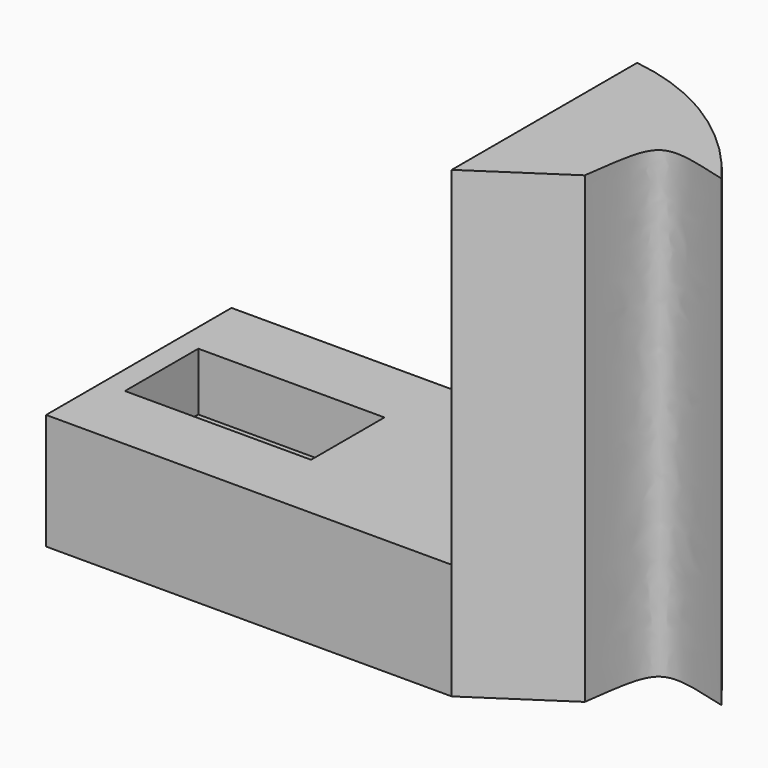
from build123d import *

# Parameters (mm, degrees)
F0_W      = 101.6
F0_H      = 50.8
F1_DEPTH  = 25.4
F3_DEPTH  = 12.7
F4_W      = 12.7
F4_H      = 50.8
F5_DEPTH  = 76.2
F6_DEPTH  = 25.4
F8_DEPTH  = 228.6
F10_DEPTH = 228.6
F12_DEPTH = 228.6


with BuildPart() as f1:
    # F0 (on Top) → F1 (new body)
    with BuildSketch(Plane.XY):
        Rectangle(F0_W, F0_H)
    extrude(amount=F1_DEPTH)

    # F2 (on face) → F3 (cut)
    with BuildSketch(Plane.XY.offset(25.4)):
        with BuildLine():
            Line((-22.7059231637, 2.6940768363), (-25.4, 0))
            Line((-25.4, 0), (-22.7059231637, -2.6940768363))
            ThreePointArc((-22.7059231637, -2.6940768363), (-21.8800189811, -1.4580238773), (-21.59, 0))
            ThreePointArc((-21.59, 0), (-21.8800189811, 1.4580238773), (-22.7059231637, 2.6940768363))
        make_face()
        with BuildLine():
            ThreePointArc((-22.7059231637, 2.6940768363), (-25.4, 3.81), (-28.0940768363, 2.6940768363))
            Line((-28.0940768363, 2.6940768363), (-25.4, 0))
            Line((-25.4, 0), (-22.7059231637, 2.6940768363))
        make_face()
        with BuildLine():
            Line((-25.4, 0), (-28.0940768363, 2.6940768363))
            ThreePointArc((-28.0940768363, 2.6940768363), (-29.21, 0), (-28.0940768363, -2.6940768363))
            Line((-28.0940768363, -2.6940768363), (-25.4, 0))
        make_face()
        with BuildLine():
            Line((-22.7059231637, -2.6940768363), (-25.4, 0))
            Line((-25.4, 0), (-28.0940768363, -2.6940768363))
            ThreePointArc((-28.0940768363, -2.6940768363), (-25.4, -3.81), (-22.7059231637, -2.6940768363))
        make_face()
        with BuildLine():
            Line((-5.0000027, 10.05000022), (-14.7721255415, 10.05000022))
            ThreePointArc((-14.7721255415, 10.05000022), (-11.8093784333, 5.4082552971), (-10.772825976, 0))
            ThreePointArc((-10.772825976, 0), (-11.8093784333, -5.4082552971), (-14.7721255415, -10.05000022))
            Line((-14.7721255415, -10.05000022), (-5.0000027, -10.05000022))
            Line((-5.0000027, -10.05000022), (-5.0000027, 10.05000022))
        make_face()
        with BuildLine():
            Line((-15.34999978, 10.05000022), (-35.45000022, 10.05000022))
            Line((-35.45000022, 10.05000022), (-28.0940768363, 2.6940768363))
            ThreePointArc((-28.0940768363, 2.6940768363), (-25.4, 3.81), (-22.7059231637, 2.6940768363))
            Line((-22.7059231637, 2.6940768363), (-15.34999978, 10.05000022))
        make_face()
        with BuildLine():
            Line((-28.0940768363, -2.6940768363), (-35.45000022, -10.05000022))
            Line((-35.45000022, -10.05000022), (-15.34999978, -10.05000022))
            Line((-15.34999978, -10.05000022), (-22.7059231637, -2.6940768363))
            ThreePointArc((-22.7059231637, -2.6940768363), (-25.4, -3.81), (-28.0940768363, -2.6940768363))
        make_face()
        with BuildLine():
            ThreePointArc((-36.0278744585, -10.05000022), (-40.027174024, 0), (-36.0278744585, 10.05000022))
            Line((-36.0278744585, 10.05000022), (-45.7999973, 10.05000022))
            Line((-45.7999973, 10.05000022), (-45.7999973, -10.05000022))
            Line((-45.7999973, -10.05000022), (-36.0278744585, -10.05000022))
        make_face()
        with BuildLine():
            Line((-14.7721255415, 10.05000022), (-15.34999978, 10.05000022))
            Line((-15.34999978, 10.05000022), (-22.7059231637, 2.6940768363))
            ThreePointArc((-22.7059231637, 2.6940768363), (-21.8800189811, 1.4580238773), (-21.59, 0))
            ThreePointArc((-21.59, 0), (-21.8800189811, -1.4580238773), (-22.7059231637, -2.6940768363))
            Line((-22.7059231637, -2.6940768363), (-15.34999978, -10.05000022))
            Line((-15.34999978, -10.05000022), (-14.7721255415, -10.05000022))
            ThreePointArc((-14.7721255415, -10.05000022), (-11.8093784333, -5.4082552971), (-10.772825976, 0))
            ThreePointArc((-10.772825976, 0), (-11.8093784333, 5.4082552971), (-14.7721255415, 10.05000022))
        make_face()
        with BuildLine():
            Line((-28.0940768363, 2.6940768363), (-35.45000022, 10.05000022))
            Line((-35.45000022, 10.05000022), (-36.0278744585, 10.05000022))
            ThreePointArc((-36.0278744585, 10.05000022), (-40.027174024, 0), (-36.0278744585, -10.05000022))
            Line((-36.0278744585, -10.05000022), (-35.45000022, -10.05000022))
            Line((-35.45000022, -10.05000022), (-28.0940768363, -2.6940768363))
            ThreePointArc((-28.0940768363, -2.6940768363), (-29.21, 0), (-28.0940768363, 2.6940768363))
        make_face()
    extrude(amount=-F3_DEPTH, mode=Mode.SUBTRACT)

    # F4 (on face) → F5 (join)
    with BuildSketch(Plane.XY.offset(25.4)):
        with Locations((44.45, 0)):
            Rectangle(F4_W, F4_H)
    extrude(amount=F5_DEPTH)

    # F6 (add): a face of the model
    f6_faces = [f1.faces().sort_by_distance(p)[0] for p in [
        (50.8, 0, 50.8),
    ]]
    extrude(f6_faces, amount=F6_DEPTH)

    # F7 (on face) → F8 (cut)
    with BuildSketch(Plane.XY.offset(101.6)):
        with BuildLine():
            Line((57.15, 25.4), (38.1, 25.4))
            add(Edge.make_bspline(
                [(38.1, 25.4), (45.2961309058, 24.4295362641), (51.659373316, 21.8816089912), (57.15, 18.5792745817)],
                knots=[0, 0, 0, 0, 8.5975400143, 8.5975400143, 8.5975400143, 8.5975400143], degree=3))
            Line((57.15, 18.5792745817), (57.15, 25.4))
        make_face()
        with BuildLine():
            Line((76.2, 25.4), (57.15, 25.4))
            Line((57.15, 25.4), (57.15, 18.5792745817))
            add(Edge.make_bspline(
                [(57.15, 18.5792745817), (65.6305263938, 13.4786666307), (72.0293207641, 6.57832777), (76.2, 0.9109777383)],
                knots=[8.5975400143, 8.5975400143, 8.5975400143, 8.5975400143, 21.8768374808, 21.8768374808, 21.8768374808, 21.8768374808], degree=3))
            Line((76.2, 0.9109777383), (76.2, 25.4))
        make_face()
    extrude(amount=-F8_DEPTH, mode=Mode.SUBTRACT)

    # F9 (on face) → F10 (cut)
    with BuildSketch(Plane.XY.offset(101.6)):
        Polygon((38.1, -25.4), (57.15, -25.4), (57.15, -12.7636595487), align=None)
    extrude(amount=-F10_DEPTH, mode=Mode.SUBTRACT)

    # F11 (on face) → F12 (cut)
    with BuildSketch(Plane.XY.offset(101.6)):
        with BuildLine():
            add(Edge.make_bspline(
                [(57.15, -12.7636595487), (59.5569387078, 5.385174416), (59.5569387078, 5.385174416), (76.2, 0.9109777382)],
                knots=[0, 0, 0, 0, 23.4499084205, 23.4499084205, 23.4499084205, 23.4499084205], degree=3))
            Line((57.15, -12.7636595487), (57.15, -25.4))
            Line((57.15, -25.4), (76.2, -25.4))
            Line((76.2, -25.4), (76.2, 0.9109777383))
        make_face()
    extrude(amount=-F12_DEPTH, mode=Mode.SUBTRACT)


solid = f1.part
